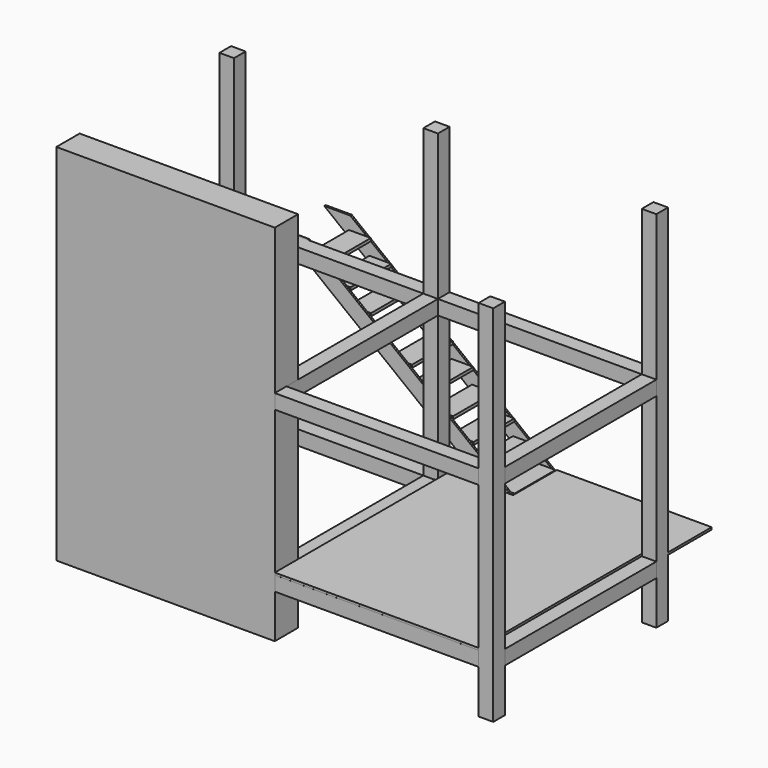
from build123d import *

# Parameters (mm, degrees)
F1_W      = 200
F1_H      = 200
F2_DEPTH  = 5000
F3_W      = 3000
F3_H      = 400
F4_DEPTH  = 5000
F5_W      = 200
F5_H      = 200
F6_DEPTH  = 2600
F7_W      = 200
F7_H      = 200
F8_DEPTH  = 2800
F9_W      = 200
F9_H      = 200
F10_DEPTH = 2600
F14_DEPTH = 25
F15_W     = 300
F15_H     = 40
F16_DEPTH = 700
F20_DEPTH = 30


with BuildPart() as f2:
    # F1 (on Top) → F2 (new body)
    with BuildSketch(Plane.XY):
        with Locations((-2900, 1400)):
            Rectangle(F1_W, F1_H)
    extrude(amount=F2_DEPTH)


with BuildPart() as f2b:
    # F1 (on Top) → F2, piece 2 (new body)
    with BuildSketch(Plane.XY):
        with Locations((-100, 1400)):
            Rectangle(F1_W, F1_H)
    extrude(amount=F2_DEPTH)


with BuildPart() as f2c:
    # F1 (on Top) → F2, piece 3 (new body)
    with BuildSketch(Plane.XY):
        with Locations((2900, 1400)):
            Rectangle(F1_W, F1_H)
    extrude(amount=F2_DEPTH)


with BuildPart() as f2d:
    # F1 (on Top) → F2, piece 4 (new body)
    with BuildSketch(Plane.XY):
        with Locations((2900, -1400)):
            Rectangle(F1_W, F1_H)
    extrude(amount=F2_DEPTH)


with BuildPart() as f4:
    # F3 (on Top) → F4 (new body)
    with BuildSketch(Plane.XY):
        with Locations((-1500, -1300)):
            Rectangle(F3_W, F3_H)
    extrude(amount=F4_DEPTH)


with BuildPart() as f6:
    # F5 (on face) → F6 (new body)
    with BuildSketch(Plane(origin=(0, -1300, 0), x_dir=(-1, 0, 0), z_dir=(0, 1, 0))):
        with Locations((-2900, 700)):
            Rectangle(F5_W, F5_H)
    extrude(amount=F6_DEPTH)


with BuildPart() as f6b:
    # F5 (on face) → F6, piece 2 (new body)
    with BuildSketch(Plane(origin=(0, -1300, 0), x_dir=(-1, 0, 0), z_dir=(0, 1, 0))):
        with Locations((100, 700)):
            Rectangle(F5_W, F5_H)
    extrude(amount=F6_DEPTH)


with BuildPart() as f6c:
    # F5 (on face) → F6, piece 3 (new body)
    with BuildSketch(Plane(origin=(0, -1300, 0), x_dir=(-1, 0, 0), z_dir=(0, 1, 0))):
        with Locations((2892.9389476776, 700)):
            Rectangle(F5_W, F5_H)
    extrude(amount=F6_DEPTH)


with BuildPart() as f8:
    # F7 (on face) → F8 (new body)
    with BuildSketch(Plane(origin=(2800, 0, 0), x_dir=(0, -1, 0), z_dir=(-1, 0, 0))):
        with Locations((-1400, 700)):
            Rectangle(F7_W, F7_H)
    extrude(amount=F8_DEPTH)


with BuildPart() as f8b:
    # F7 (on face) → F8, piece 2 (new body)
    with BuildSketch(Plane(origin=(2800, 0, 0), x_dir=(0, -1, 0), z_dir=(-1, 0, 0))):
        with Locations((1400, 700)):
            Rectangle(F7_W, F7_H)
    extrude(amount=F8_DEPTH)


with BuildPart() as f10:
    # F9 (on face) → F10 (new body)
    with BuildSketch(Plane(origin=(-200, 0, 0), x_dir=(0, -1, 0), z_dir=(-1, 0, 0))):
        with Locations((-1400, 700)):
            Rectangle(F9_W, F9_H)
    extrude(amount=F10_DEPTH)


with BuildPart() as f12_1:
    # F12: instance of F8b
    add(f8b.part.mirror(Plane.XY.offset(1800)))


with BuildPart() as f12_2:
    # F12: instance of F6
    add(f6.part.mirror(Plane.XY.offset(1800)))


with BuildPart() as f12_3:
    # F12: instance of F8
    add(f8.part.mirror(Plane.XY.offset(1800)))


with BuildPart() as f12_4:
    # F12: instance of F6b
    add(f6b.part.mirror(Plane.XY.offset(1800)))


with BuildPart() as f12_5:
    # F12: instance of F10
    add(f10.part.mirror(Plane.XY.offset(1800)))


with BuildPart() as f12_6:
    # F12: instance of F6c
    add(f6c.part.mirror(Plane.XY.offset(1800)))


with BuildPart() as f14:
    # F13 (on face) → F14 (new body)
    with BuildSketch(Plane(origin=(0, 1500, 0), x_dir=(-1, 0, 0), z_dir=(0, 1, 0))):
        Polygon((1942.6607659938, 3000), (-1897.1641305854, 0), (-1539.8248965792, 0), (2300, 3000), align=None)
    extrude(amount=F14_DEPTH)


with BuildPart() as f16:
    # F15 (on face) → F16 (new body)
    with BuildSketch(Plane(origin=(0, 1525, 0), x_dir=(-1, 0, 0), z_dir=(0, 1, 0))):
        with Locations((-723.210824831, 820)):
            Rectangle(F15_W, F15_H)
    extrude(amount=F16_DEPTH)


with BuildPart() as f16b:
    # F15 (on face) → F16, piece 2 (new body)
    with BuildSketch(Plane(origin=(0, 1525, 0), x_dir=(-1, 0, 0), z_dir=(0, 1, 0))):
        with Locations((-441.6236657485, 1040)):
            Rectangle(F15_W, F15_H)
    extrude(amount=F16_DEPTH)


with BuildPart() as f16c:
    # F15 (on face) → F16, piece 3 (new body)
    with BuildSketch(Plane(origin=(0, 1525, 0), x_dir=(-1, 0, 0), z_dir=(0, 1, 0))):
        with Locations((-160.036506666, 1260)):
            Rectangle(F15_W, F15_H)
    extrude(amount=F16_DEPTH)


with BuildPart() as f16d:
    # F15 (on face) → F16, piece 4 (new body)
    with BuildSketch(Plane(origin=(0, 1525, 0), x_dir=(-1, 0, 0), z_dir=(0, 1, 0))):
        with Locations((121.5506524165, 1480)):
            Rectangle(F15_W, F15_H)
    extrude(amount=F16_DEPTH)


with BuildPart() as f16e:
    # F15 (on face) → F16, piece 5 (new body)
    with BuildSketch(Plane(origin=(0, 1525, 0), x_dir=(-1, 0, 0), z_dir=(0, 1, 0))):
        with Locations((403.1378114989, 1700)):
            Rectangle(F15_W, F15_H)
    extrude(amount=F16_DEPTH)


with BuildPart() as f16f:
    # F15 (on face) → F16, piece 6 (new body)
    with BuildSketch(Plane(origin=(0, 1525, 0), x_dir=(-1, 0, 0), z_dir=(0, 1, 0))):
        with Locations((684.7249705814, 1920)):
            Rectangle(F15_W, F15_H)
    extrude(amount=F16_DEPTH)


with BuildPart() as f16g:
    # F15 (on face) → F16, piece 7 (new body)
    with BuildSketch(Plane(origin=(0, 1525, 0), x_dir=(-1, 0, 0), z_dir=(0, 1, 0))):
        with Locations((966.3121296639, 2140)):
            Rectangle(F15_W, F15_H)
    extrude(amount=F16_DEPTH)


with BuildPart() as f16h:
    # F15 (on face) → F16, piece 8 (new body)
    with BuildSketch(Plane(origin=(0, 1525, 0), x_dir=(-1, 0, 0), z_dir=(0, 1, 0))):
        with Locations((1247.8992887464, 2360)):
            Rectangle(F15_W, F15_H)
    extrude(amount=F16_DEPTH)


with BuildPart() as f16i:
    # F15 (on face) → F16, piece 9 (new body)
    with BuildSketch(Plane(origin=(0, 1525, 0), x_dir=(-1, 0, 0), z_dir=(0, 1, 0))):
        with Locations((1529.4864478288, 2580)):
            Rectangle(F15_W, F15_H)
    extrude(amount=F16_DEPTH)


with BuildPart() as f16j:
    # F15 (on face) → F16, piece 10 (new body)
    with BuildSketch(Plane(origin=(0, 1525, 0), x_dir=(-1, 0, 0), z_dir=(0, 1, 0))):
        with Locations((1811.0736069113, 2800)):
            Rectangle(F15_W, F15_H)
    extrude(amount=F16_DEPTH)


with BuildPart() as f18_1:
    # F18: instance of F14
    add(f14.part.mirror(Plane(origin=(-201.4179347073, 1875, 1500), x_dir=(-1, 0, 0), z_dir=(0, 1, 0))))


with BuildPart() as f20:
    # F19 (on face) → F20 (new body)
    with BuildSketch(Plane.XY.offset(800)):
        Polygon((0, -1499.6237754822), (2800, -1500), (2800, -1300), (2800, 1300), (2800, 1500), (3000, 1500), (3000, 2250), (873.210824831, 2250), (873.210824831, 1500), (0, 1500), (0, -1300), align=None)
    extrude(amount=F20_DEPTH)


solid = Compound([f2.part, f2b.part, f2c.part, f2d.part, f4.part, f6.part, f6b.part, f6c.part, f8.part, f8b.part, f10.part, f12_1.part, f12_2.part, f12_3.part, f12_4.part, f12_5.part, f12_6.part, f14.part, f16.part, f16b.part, f16c.part, f16d.part, f16e.part, f16f.part, f16g.part, f16h.part, f16i.part, f16j.part, f18_1.part, f20.part])
